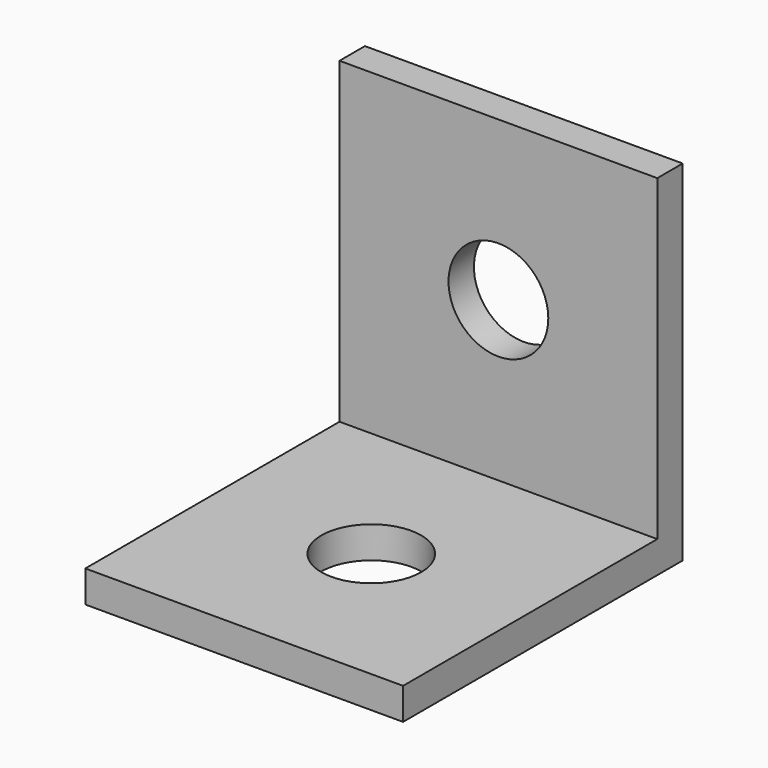
from build123d import *

# Parameters (mm, degrees)
F0_W     = 12.7
F0_H     = 13.97
F0_R     = 1.9939
F1_DEPTH = 13.97
F2_W     = 12.7
F2_H     = 12.7
F2_R     = 1.9939
F3_DEPTH = 12.7
F4_R     = 1.9939
F5_DEPTH = 25.4


with BuildPart() as f1:
    # F0 (on Top) → F1 (new body)
    with BuildSketch(Plane.XY):
        with Locations((-41.231433, 30.867646)):
            Rectangle(F0_W, F0_H)
        with Locations((-41.231433, 30.232646)):
            Circle(F0_R, mode=Mode.SUBTRACT)
    extrude(amount=F1_DEPTH)

    # F2 (on face) → F3 (cut)
    with BuildSketch(Plane.XY.offset(13.97)):
        with Locations((-41.231433, 30.232646)):
            Rectangle(F2_W, F2_H)
        with Locations((-41.231433, 30.232646)):
            Circle(F2_R, mode=Mode.SUBTRACT)
    extrude(amount=-F3_DEPTH, mode=Mode.SUBTRACT)

    # F4 (on face) → F5 (cut)
    with BuildSketch(Plane.XZ.offset(-36.582646)):
        with Locations((-41.231433, 7.62)):
            Circle(F4_R)
    extrude(amount=-F5_DEPTH, mode=Mode.SUBTRACT)


solid = f1.part
